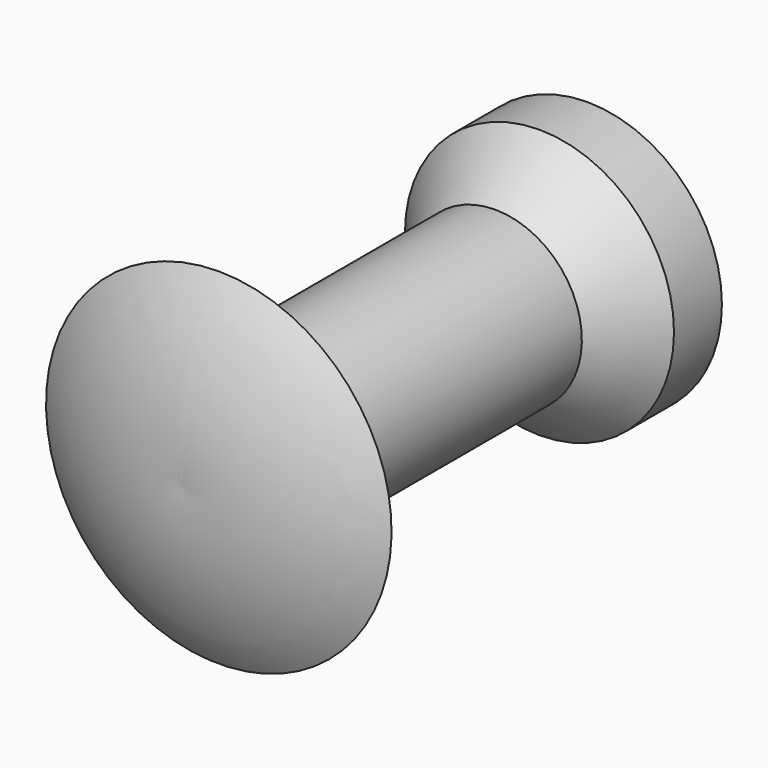
from build123d import *


with BuildPart() as f1:
    # F0 (on Right) → F1 (revolve)
    with BuildSketch(Plane.YZ):
        with BuildLine():
            ThreePointArc((-0.281038, 4.7625), (-1.286842, 2.481554), (-1.524, 0))
            Line((-1.524, 0), (12.418962, 0))
            Line((12.418962, 0), (12.418962, 3.7084))
            Line((12.418962, 3.7084), (10.767962, 3.7084))
            Line((10.767962, 3.7084), (9.243962, 2.3876))
            Line((9.243962, 2.3876), (-0.281038, 2.3876))
            Line((-0.281038, 2.3876), (-0.281038, 4.7625))
        make_face()
    revolve(axis=Axis((0, 5.588, 0), (0, 1, 0)))


solid = f1.part
